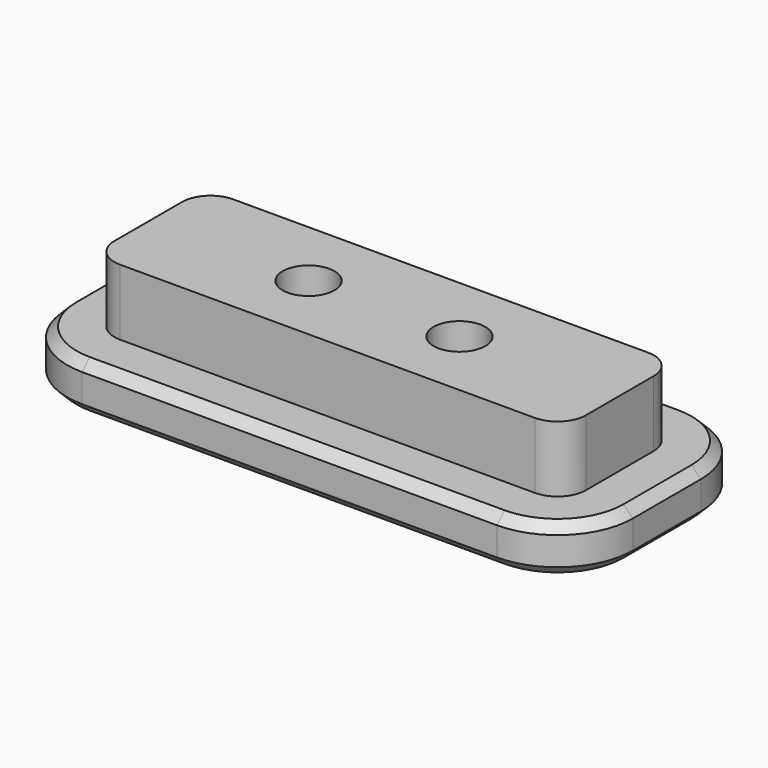
from build123d import *

# Parameters (mm, degrees)
F0_W           = 50
F0_H           = 15
F1_DEPTH       = 7
F2_W           = 60
F2_H           = 25
F2_W_2         = 50
F2_H_2         = 15
F3_DEPTH       = 5
F5_D           = 5.5
F5_CSINK_D     = 11.2
F5_CSINK_ANGLE = 90
F6_R           = 8
F7_R           = 3
F8_SIZE        = 1


with BuildPart() as f1:
    # F0 (on Top) → F1 (new body)
    with BuildSketch(Plane.XY):
        Rectangle(F0_W, F0_H)
    extrude(amount=F1_DEPTH)

    # F2 (on face) → F3 (join)
    with BuildSketch(Plane(origin=(0, 0, 0), x_dir=(1, 0, 0), z_dir=(0, 0, -1))):
        Rectangle(F2_W, F2_H)
        Rectangle(F2_W_2, F2_H_2, mode=Mode.SUBTRACT)
        Rectangle(F2_W_2, F2_H_2)
    extrude(amount=F3_DEPTH)

    # F5 (through all)
    with Locations(Plane(origin=(0, 0, -5), x_dir=(1, 0, 0), z_dir=(0, 0, -1))):
        with Locations((-8, 0), (8, 0)):
            CounterSinkHole(F5_D / 2, F5_CSINK_D / 2, counter_sink_angle=F5_CSINK_ANGLE)

    # F6
    f6_edges = [f1.edges().sort_by_distance(p)[0] for p in [
        (-30, -12.5, -2.5),
        (-30, 12.5, -2.5),
        (30, -12.5, -2.5),
        (30, 12.5, -2.5),
    ]]
    fillet(f6_edges, radius=F6_R)

    # F7
    f7_edges = [f1.edges().sort_by_distance(p)[0] for p in [
        (25, -7.5, 3.5),
        (25, 7.5, 3.5),
        (-25, 7.5, 3.5),
        (-25, -7.5, 3.5),
    ]]
    fillet(f7_edges, radius=F7_R)

    # F8
    f8_edges = [f1.edges().sort_by_distance(p)[0] for p in [
        (0, -12.5, -5),
        (30, 0, -5),
        (0, 12.5, -5),
        (-30, 0, -5),
        (-30, 0, 0),
        (0, 12.5, 0),
        (30, 0, 0),
        (0, -12.5, 0),
    ]]
    chamfer(f8_edges, length=F8_SIZE)


solid = f1.part
